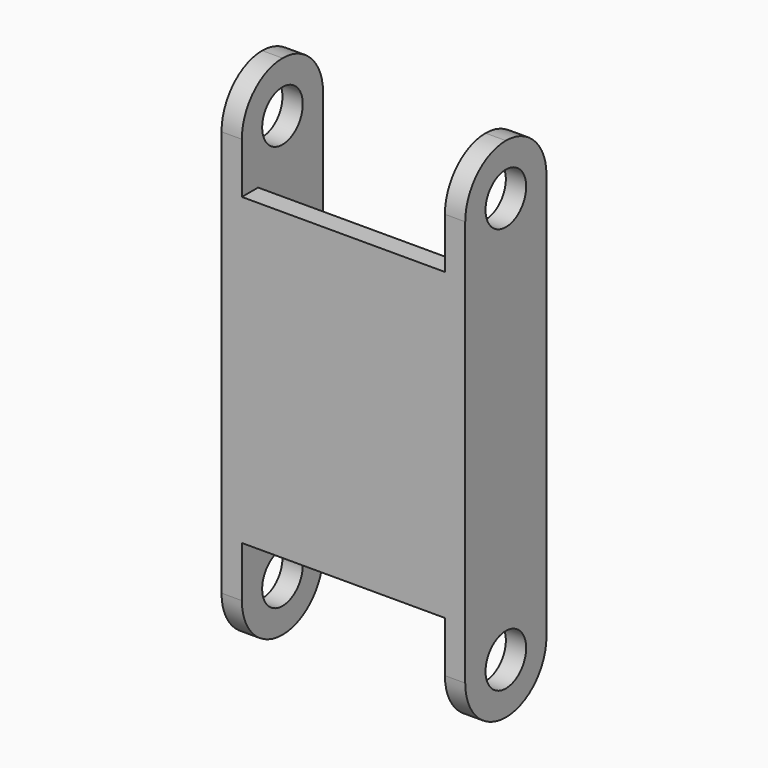
from build123d import *

# Parameters (mm, degrees)
F1_DEPTH  = 5
F3_DEPTH  = 25
F5_DEPTH  = 25
F6_R      = 2.5
F7_DEPTH  = 25
F8_R      = 2.5
F9_DEPTH  = 25
F10_W     = 20
F10_H     = 30
F11_DEPTH = 2
F13_R     = 2.5
F14_DEPTH = 10


with BuildPart() as f1:
    # F0 (on Front) → F1 (new body, symmetric)
    with BuildSketch(Plane.XZ):
        Polygon((0, 50), (0, 0), (2, 0), (2, 10), (2, 40), (2, 50), align=None)
    extrude(amount=F1_DEPTH, both=True)


with BuildPart() as f1b:
    # F0 (on Front) → F1, piece 2 (new body, symmetric)
    with BuildSketch(Plane.XZ):
        Polygon((22, 40), (22, 10), (22, 0), (24, 0), (24, 50), (22, 50), align=None)
    extrude(amount=F1_DEPTH, both=True)


with BuildPart() as f3_tool:
    # F2 (on face) → F3 (new body)
    with BuildSketch(Plane(origin=(0, 0, 0), x_dir=(0, -1, 0), z_dir=(-1, 0, 0))):
        with BuildLine():
            ThreePointArc((5, 5), (3.5355339059, 1.4644660941), (0, 0))
            Line((0, 0), (5, 0))
            Line((5, 0), (5, 5))
        make_face()
        with BuildLine():
            ThreePointArc((0, 0), (-3.5355339059, 1.4644660941), (-5, 5))
            Line((-5, 5), (-5, 0))
            Line((-5, 0), (0, 0))
        make_face()
    extrude(amount=-F3_DEPTH)


with BuildPart() as f1_1:
    add(f1.part)

    # F3: cut by f3_tool
    add(f3_tool.part, mode=Mode.SUBTRACT)


with BuildPart() as f1b_1:
    add(f1b.part)

    # F3: cut by f3_tool
    add(f3_tool.part, mode=Mode.SUBTRACT)


with BuildPart() as f5_tool:
    # F4 (on face) → F5 (new body)
    with BuildSketch(Plane(origin=(0, 0, 0), x_dir=(0, -1, 0), z_dir=(-1, 0, 0))):
        with BuildLine():
            ThreePointArc((-5, 45), (-3.5355339059, 48.5355339059), (0, 50))
            Line((0, 50), (-5, 50))
            Line((-5, 50), (-5, 45))
        make_face()
        with BuildLine():
            ThreePointArc((0, 50), (3.5355339059, 48.5355339059), (5, 45))
            Line((5, 45), (5, 50))
            Line((5, 50), (0, 50))
        make_face()
    extrude(amount=-F5_DEPTH)


with BuildPart() as f1_2:
    add(f1_1.part)

    # F5: cut by f5_tool
    add(f5_tool.part, mode=Mode.SUBTRACT)


with BuildPart() as f1b_2:
    add(f1b_1.part)

    # F5: cut by f5_tool
    add(f5_tool.part, mode=Mode.SUBTRACT)


with BuildPart() as f7_tool:
    # F6 (on face) → F7 (new body)
    with BuildSketch(Plane(origin=(0, 0, 0), x_dir=(0, -1, 0), z_dir=(-1, 0, 0))):
        with Locations((0, 45)):
            Circle(F6_R)
    extrude(amount=-F7_DEPTH)


with BuildPart() as f1_3:
    add(f1_2.part)

    # F7: cut by f7_tool
    add(f7_tool.part, mode=Mode.SUBTRACT)


with BuildPart() as f1b_3:
    add(f1b_2.part)

    # F7: cut by f7_tool
    add(f7_tool.part, mode=Mode.SUBTRACT)


with BuildPart() as f9_tool:
    # F8 (on face) → F9 (new body)
    with BuildSketch(Plane(origin=(0, 0, 0), x_dir=(0, -1, 0), z_dir=(-1, 0, 0))):
        with Locations((0, 5)):
            Circle(F8_R)
    extrude(amount=-F9_DEPTH)


with BuildPart() as f1_4:
    add(f1_3.part)

    # F9: cut by f9_tool
    add(f9_tool.part, mode=Mode.SUBTRACT)


with BuildPart() as f1b_4:
    add(f1b_3.part)

    # F9: cut by f9_tool
    add(f9_tool.part, mode=Mode.SUBTRACT)


with BuildPart() as f11:
    # F10 (on face) → F11 (new body)
    with BuildSketch(Plane.XZ.offset(5)):
        with Locations((12, 25)):
            Rectangle(F10_W, F10_H)
    extrude(amount=-F11_DEPTH)


with BuildPart() as f1_5:
    add(f1_4.part)

    # F12: union F1b, F11
    add(f1b_4.part)
    add(f11.part)

    # F13 (on face) → F14 (cut)
    with BuildSketch(Plane.YZ.offset(24)):
        with BuildLine():
            ThreePointArc((-5, 45), (-3.5355339059, 48.5355339059), (0, 50))
            Line((0, 50), (-5, 50))
            Line((-5, 50), (-5, 45))
        make_face()
        with BuildLine():
            ThreePointArc((0, 50), (3.5355339059, 48.5355339059), (5, 45))
            Line((5, 45), (5, 50))
            Line((5, 50), (0, 50))
        make_face()
        with Locations((0, 45)):
            Circle(F13_R)
        with BuildLine():
            ThreePointArc((5, 5), (3.5355339059, 1.4644660941), (0, 0))
            Line((0, 0), (5, 0))
            Line((5, 0), (5, 5))
        make_face()
        with BuildLine():
            ThreePointArc((0, 0), (-3.5355339059, 1.4644660941), (-5, 5))
            Line((-5, 5), (-5, 0))
            Line((-5, 0), (0, 0))
        make_face()
        with Locations((0, 5)):
            Circle(F13_R)
    extrude(amount=-F14_DEPTH, mode=Mode.SUBTRACT)


solid = f1_5.part
